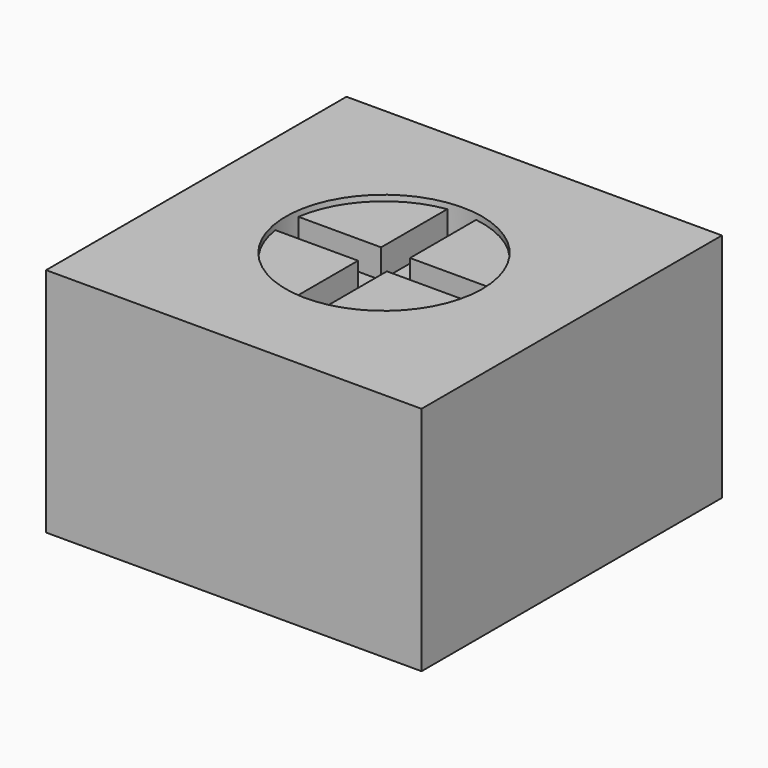
from build123d import *

# Parameters (mm, degrees)
BOX011_W               = 0.5
BOX011_H               = 5
BOX011_DEPTH           = 3
BOX011_PLACEMENT_ANGLE = 90
BOX012_W               = 0.5
BOX012_H               = 5
BOX012_DEPTH           = 3
CYLINDER_R             = 1.7
CYLINDER_DEPTH         = 3.9
CYLINDER001_R          = 1.7
CYLINDER001_DEPTH      = 5
BOX010_W               = 6.5
BOX010_H               = 6.5
BOX010_DEPTH           = 4


with BuildPart() as cubo011:
    # Box011 → Box011 (new body)
    with BuildSketch(Plane.XY):
        with Locations((0.25, 2.5)):
            Rectangle(BOX011_W, BOX011_H)
    extrude(amount=BOX011_DEPTH)


with BuildPart() as cubo011_1:
    # Box011 placement: moved
    add(cubo011.part.moved(Location((2.75, -0.25, 3.4))).rotate(Axis((2.75, -0.25, 3.4), (0, 0, 1)), BOX011_PLACEMENT_ANGLE))


with BuildPart() as cubo012:
    # Box012 → Box012 (new body)
    with BuildSketch(Plane(origin=(-0.25, -3, 3.4), x_dir=(1, 0, 0), z_dir=(0, 0, 1))):
        with Locations((0.25, 2.5)):
            Rectangle(BOX012_W, BOX012_H)
    extrude(amount=BOX012_DEPTH)


with BuildPart() as cut004:
    # Cylinder → Cylinder (new body)
    with BuildSketch(Plane.XY):
        Circle(CYLINDER_R)
    extrude(amount=CYLINDER_DEPTH)

    # Cut003: cut Cubo012
    add(cubo012.part, mode=Mode.SUBTRACT)

    # Cut004: cut Cubo011
    add(cubo011_1.part, mode=Mode.SUBTRACT)


with BuildPart() as cilindro001:
    # Cylinder001 → Cylinder001 (new body)
    with BuildSketch(Plane.XY):
        Circle(CYLINDER001_R)
    extrude(amount=CYLINDER001_DEPTH)


with BuildPart() as potentiometer:
    # Box010 → Box010 (new body)
    with BuildSketch(Plane(origin=(-3.25, -3.25, 0), x_dir=(1, 0, 0), z_dir=(0, 0, 1))):
        with Locations((3.25, 3.25)):
            Rectangle(BOX010_W, BOX010_H)
    extrude(amount=BOX010_DEPTH)

    # Cut002: cut Cilindro001
    add(cilindro001.part, mode=Mode.SUBTRACT)

    # Fusion003: union Cut004
    add(cut004.part)


with BuildPart() as potentiometer_1:
    # Fusion003 placement: moved
    add(potentiometer.part.moved(Location((-1, 4.5, 1))))


solid = potentiometer_1.part
